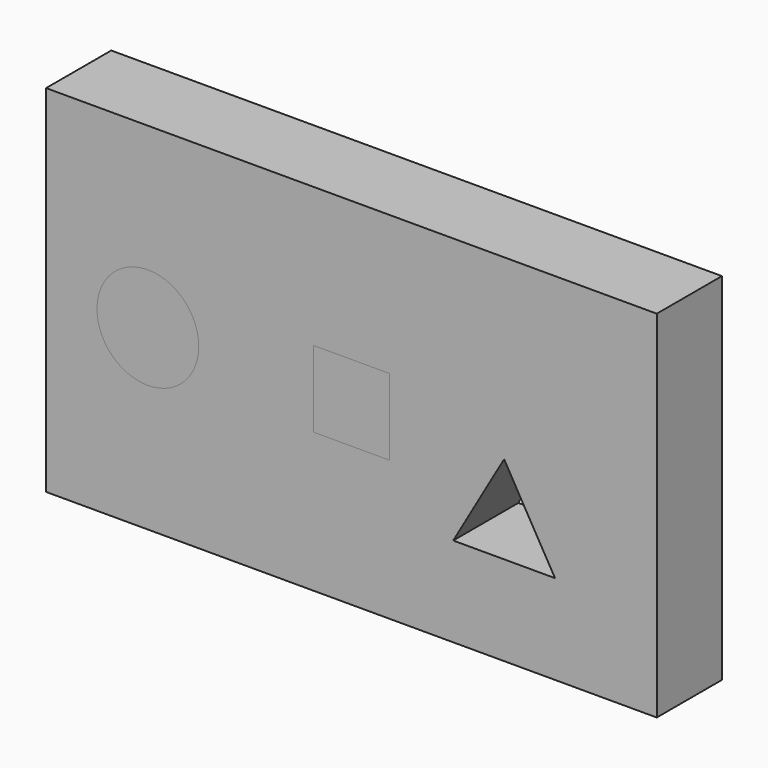
from build123d import *

# Parameters (mm, degrees)
F0_R     = 12.7
F1_DEPTH = 20.32
F2_DEPTH = 52.07


with BuildPart() as f1:
    # F0 (on Front) → F1 (new body)
    with BuildSketch(Plane.XZ):
        Polygon((44.45, -44.361142), (44.45, 0), (44.45, 44.361142), (-107.95, 44.361142), (-107.95, -44.361142), (0, -44.361142), align=None)
        with Locations((-82.55, 0)):
            Circle(F0_R, mode=Mode.SUBTRACT)
        Polygon((-22.225, 9.525), (-22.225, 0), (-22.225, -9.525), (-41.275, -9.525), (-41.275, 0), (-41.275, 9.525), align=None, mode=Mode.SUBTRACT)
        Polygon((-6.35, -21.997045), (6.35, 0), (19.05, -21.997045), align=None, mode=Mode.SUBTRACT)
    extrude(amount=-F1_DEPTH)


with BuildPart() as f2:
    # F0 (on Front) → F2 (new body)
    with BuildSketch(Plane.XZ):
        with Locations((-82.55, 0)):
            Circle(F0_R)
        Polygon((-31.75, 0), (-22.225, 0), (-22.225, 9.525), (-41.275, 9.525), (-41.275, 0), align=None)
        Polygon((-22.225, -9.525), (-22.225, 0), (-31.75, 0), (-41.275, 0), (-41.275, -9.525), align=None)
    extrude(amount=-F2_DEPTH)


solid = Compound([f1.part, f2.part])
